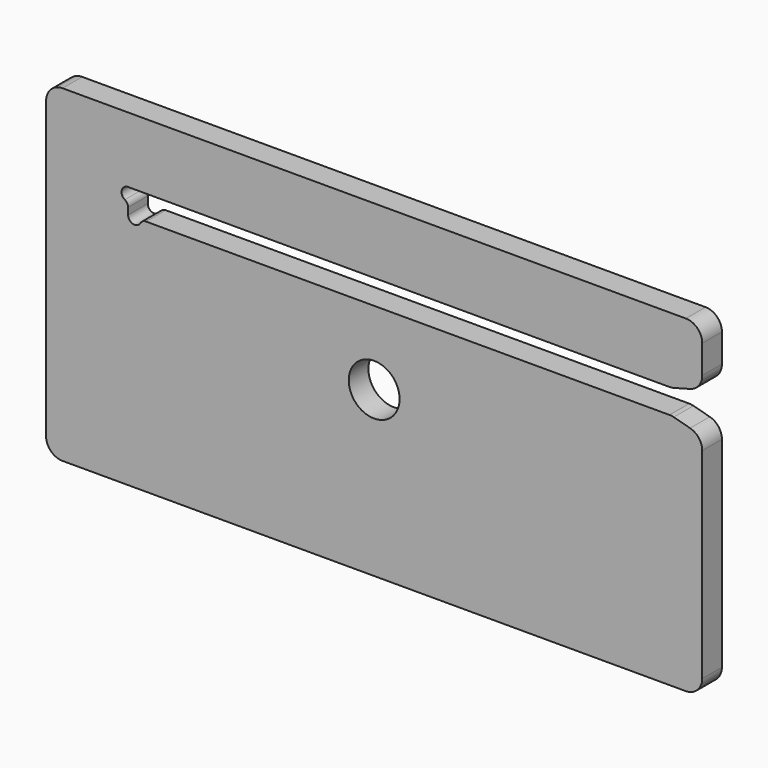
from build123d import *

# Parameters (mm, degrees)
SKETCH004_R  = 1.55
PAD005_DEPTH = 0.75
FILLET006_R  = 0.4
FILLET007_R  = 1


with BuildPart() as part:
    # Sketch004 → Pad005 (new body, symmetric)
    with BuildSketch(Plane.XZ):
        with BuildLine():
            Line((-20, 10), (-20, -7))
            Line((-20, -8.5), (-20, -7))
            Line((-20, -8.5), (-20, -10))
            Line((-20, -10), (20, -10))
            Line((20, -10), (20, 4))
            Line((18.133975, 4.5), (20, 4))
            Line((18.133975, 4.5), (-14.2, 4.5))
            ThreePointArc((-15, 4.5), (-14.6, 4.1), (-14.2, 4.5))
            Line((-15, 4.5), (-15, 5.2))
            ThreePointArc((-15, 6), (-15.4, 5.6), (-15, 5.2))
            Line((-15, 6), (18.133975, 6))
            Line((18.133975, 6), (20, 6.5))
            Line((20, 6.5), (20, 10))
            Line((20, 10), (-20, 10))
        make_face()
        Circle(SKETCH004_R, mode=Mode.SUBTRACT)
    extrude(amount=PAD005_DEPTH, both=True)

    # Fillet006
    fillet006_edges = [part.edges().sort_by_distance(p)[0] for p in [
        (-15, 0, 5.2),
        (-14.2, 0, 4.5),
    ]]
    fillet(fillet006_edges, radius=FILLET006_R)

    # Fillet007
    fillet007_edges = [part.edges().sort_by_distance(p)[0] for p in [
        (18.133975, 0, 4.5),
        (18.133975, 0, 6),
        (20, 0, 6.5),
        (20, 0, 10),
        (20, 0, 4),
        (20, 0, -10),
        (-20, 0, -10),
        (-20, 0, 10),
    ]]
    fillet(fillet007_edges, radius=FILLET007_R)


solid = part.part
